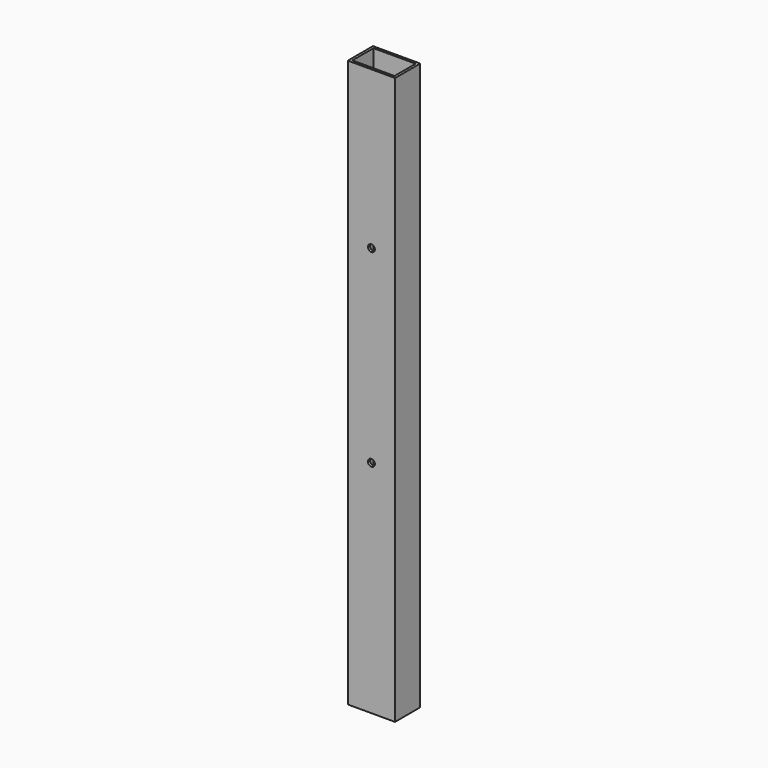
from build123d import *

# Parameters (mm, degrees)
F0_W     = 75
F0_H     = 50
F0_W_2   = 67
F0_H_2   = 42
F1_DEPTH = 900
F2_R     = 5.5
F3_DEPTH = 50


with BuildPart() as f1:
    # F0 (on Top) → F1 (new body)
    with BuildSketch(Plane.XY):
        Rectangle(F0_W, F0_H)
        Rectangle(F0_W_2, F0_H_2, mode=Mode.SUBTRACT)
    extrude(amount=F1_DEPTH)

    # F2 (on face) → F3 (cut)
    with BuildSketch(Plane.XZ.offset(25)):
        with Locations((0, 350)):
            Circle(F2_R)
        with Locations((0, 650)):
            Circle(F2_R)
    extrude(amount=-F3_DEPTH, mode=Mode.SUBTRACT)


solid = f1.part
